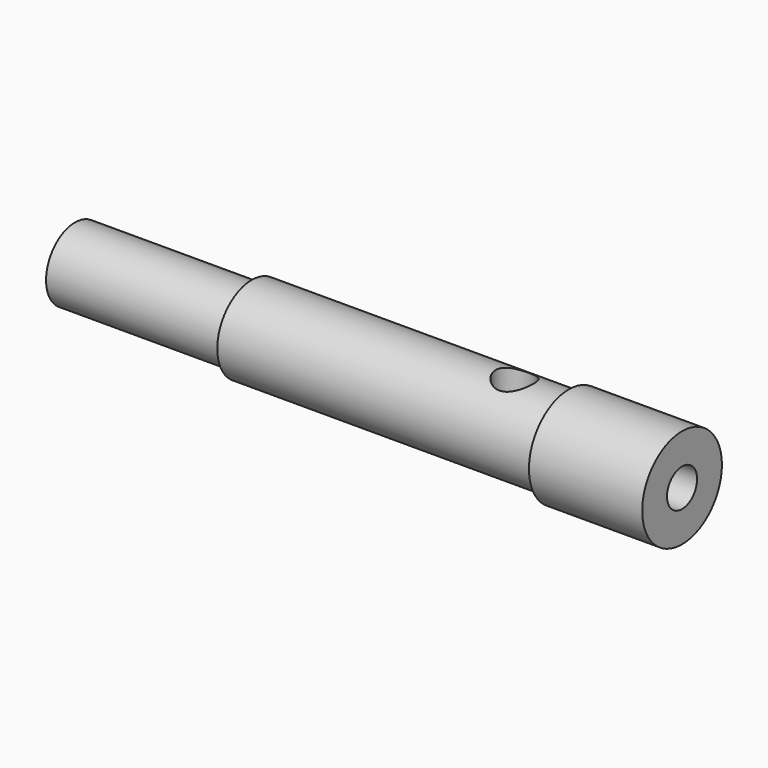
from build123d import *

# Parameters (mm, degrees)
F0_R      = 11
F1_DEPTH  = 67
F3_R      = 11
F3_R_2    = 9.5
F4_DEPTH  = 70
F6_R      = 11
F6_R_2    = 8
F7_DEPTH  = 39.001
F8_R      = 4.15
F9_DEPTH  = 44
F11_R     = 4.15
F12_DEPTH = 20.501


with BuildPart() as f1:
    # F0 (on Right) → F1 (new body, symmetric)
    with BuildSketch(Plane.YZ):
        Circle(F0_R)
    extrude(amount=F1_DEPTH, both=True)

    # F3 (on offset) → F4 (cut)
    with BuildSketch(Plane.YZ.offset(42)):
        Circle(F3_R)
        Circle(F3_R_2, mode=Mode.SUBTRACT)
    extrude(amount=-F4_DEPTH, mode=Mode.SUBTRACT)

    # F6 (on offset) → F7 (cut, through all)
    with BuildSketch(Plane.YZ.offset(-28)):
        Circle(F6_R)
        Circle(F6_R_2, mode=Mode.SUBTRACT)
    extrude(amount=-F7_DEPTH, mode=Mode.SUBTRACT)

    # F8 (on face) → F9 (cut)
    with BuildSketch(Plane.YZ.offset(67)):
        Circle(F8_R)
    extrude(amount=-F9_DEPTH, mode=Mode.SUBTRACT)

    # F11 (on offset) → F12 (cut, through all)
    with BuildSketch(Plane.XY.offset(9.5)):
        with Locations((30, 0)):
            Circle(F11_R)
    extrude(amount=-F12_DEPTH, mode=Mode.SUBTRACT)


solid = f1.part
